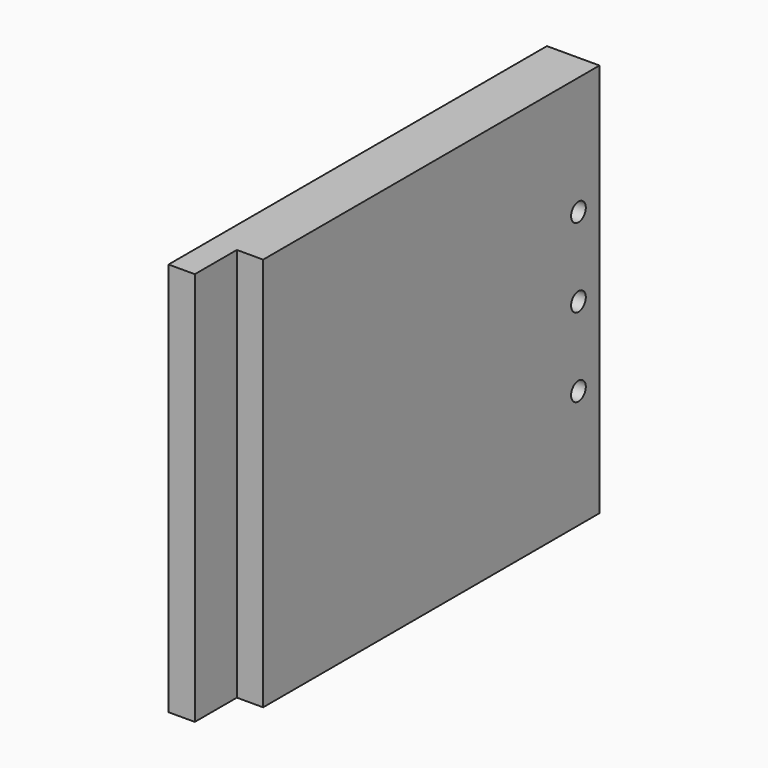
from build123d import *

# Parameters (mm, degrees)
F0_W     = 180
F0_H     = 150
F1_DEPTH = 20
F2_R     = 3.5
F3_DEPTH = 10
F4_W     = 20
F4_H     = 150
F5_DEPTH = 10
F6_ANGLE = 180
F7_ANGLE = -90
F8_ANGLE = 180


with BuildPart() as f1:
    # F0 (on Front) → F1 (new body)
    with BuildSketch(Plane.XZ):
        with Locations((90, 75)):
            Rectangle(F0_W, F0_H)
    extrude(amount=F1_DEPTH)

    # F2 (on face) → F3 (cut)
    with BuildSketch(Plane.XZ.offset(20)):
        with Locations((10, 75)):
            Circle(F2_R)
        with Locations((10, 105)):
            Circle(F2_R)
        with Locations((10, 45)):
            Circle(F2_R)
    extrude(amount=-F3_DEPTH, mode=Mode.SUBTRACT)

    # F4 (on face) → F5 (cut)
    with BuildSketch(Plane.XZ.offset(20)):
        with Locations((170, 75)):
            Rectangle(F4_W, F4_H)
    extrude(amount=-F5_DEPTH, mode=Mode.SUBTRACT)


with BuildPart() as f1_1:
    # F6: moved
    add(f1.part.rotate(Axis((90, 0, 150), (1, 0, 0)), F6_ANGLE))


with BuildPart() as f1_2:
    # F7: moved
    add(f1_1.part.rotate(Axis((0, 0, 225), (0, 0, -1)), F7_ANGLE))


with BuildPart() as f1_3:
    # F8: moved
    add(f1_2.part.rotate(Axis((-20, 0, 225), (0, 0, -1)), F8_ANGLE))


solid = f1_3.part
